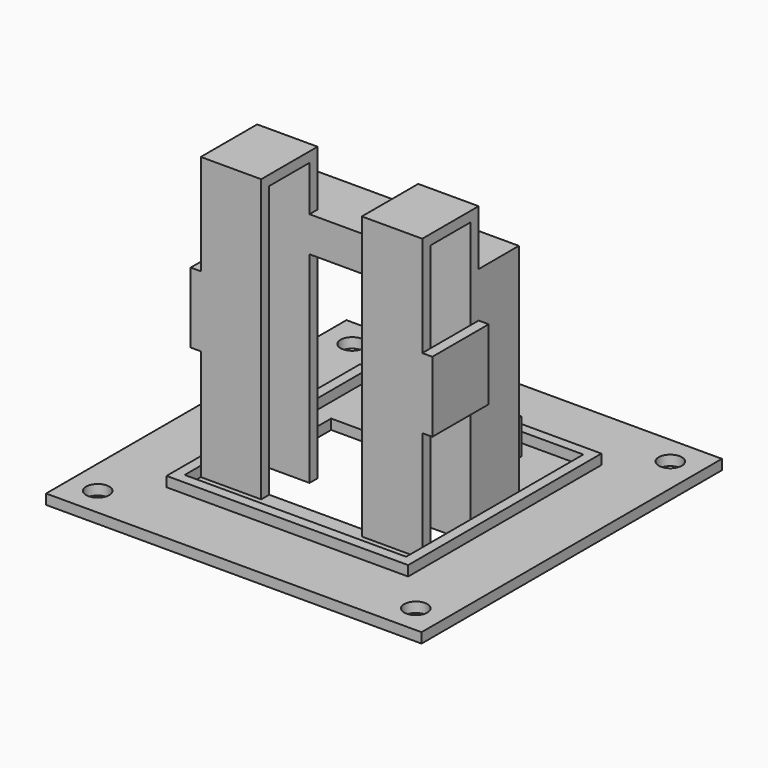
from build123d import *

# Parameters (mm, degrees)
SKETCH_W        = 37.3
SKETCH_H        = 37.3
PAD_DEPTH       = 1
SKETCH001_R     = 1.15
POCKET_DEPTH    = 1.001
SKETCH002_W     = 24
SKETCH002_H     = 24
SKETCH002_W_2   = 22
SKETCH002_H_2   = 22
PAD001_DEPTH    = 1
POCKET001_DEPTH = 5
SKETCH004_W     = 9.5
SKETCH004_H     = 4
POCKET002_DEPTH = 5
SKETCH005_W     = 1.5
SKETCH005_H     = 2.5
PAD002_DEPTH    = 2
SKETCH006_W     = 12.5
SKETCH006_H     = 2.5
PAD003_DEPTH    = 1.5
PAD004_DEPTH    = 19
SKETCH008_W     = 18.5
SKETCH008_H     = 3
PAD006_DEPTH    = 1.5
SKETCH009_W     = 22
SKETCH009_H     = 6
PAD007_DEPTH    = 2
SKETCH010_W     = 6
SKETCH010_H     = 1
PAD008_DEPTH    = 27
SKETCH011_W     = 6
SKETCH011_H     = 1
PAD009_DEPTH    = 4.5
SKETCH012_W     = 6
SKETCH012_H     = 7
PAD010_DEPTH    = 1
SKETCH013_W     = 7
SKETCH013_H     = 7
PAD011_DEPTH    = 1
SKETCH014_W     = 7
SKETCH014_H     = 7
PAD012_DEPTH    = 1


with BuildPart() as part:
    # Sketch → Pad (new body)
    with BuildSketch(Plane.XY):
        Rectangle(SKETCH_W, SKETCH_H)
    extrude(amount=PAD_DEPTH)

    # Sketch001 (on Face6 of Pad) → Pocket (cut, through all)
    with BuildSketch(Plane.XY.offset(1)):
        with Locations((15.8, 15.8)):
            Circle(SKETCH001_R)
        with Locations((-15.8, -15.8)):
            Circle(SKETCH001_R)
        with Locations((15.8, -15.8)):
            Circle(SKETCH001_R)
        with Locations((-15.8, 15.8)):
            Circle(SKETCH001_R)
    extrude(amount=-POCKET_DEPTH, mode=Mode.SUBTRACT)

    # Sketch002 (on Face5 of Pocket) → Pad001 (join)
    with BuildSketch(Plane.XY.offset(1)):
        Rectangle(SKETCH002_W, SKETCH002_H)
        Rectangle(SKETCH002_W_2, SKETCH002_H_2, mode=Mode.SUBTRACT)
    extrude(amount=PAD001_DEPTH)

    # Sketch003 (on Face20 of Pad001) → Pocket001 (cut)
    with BuildSketch(Plane.XY.offset(1)):
        Polygon((-11, -3), (-11, -8), (11, -8), (11, -3), (5, -3), (5, -2), (9.25, -2), (9.25, 5), (-9.25, 5), (-9.25, -2), (-5, -2), (-5, -3), align=None)
    extrude(amount=-POCKET001_DEPTH, mode=Mode.SUBTRACT)

    # Sketch004 (on Face25 of Pocket001) → Pocket002 (cut)
    with BuildSketch(Plane.XY.offset(1)):
        with Locations((0, 8)):
            Rectangle(SKETCH004_W, SKETCH004_H)
    extrude(amount=-POCKET002_DEPTH, mode=Mode.SUBTRACT)

    # Sketch005 (on Face31 of Pocket002) → Pad002 (join)
    with BuildSketch(Plane.XY.offset(1)):
        with Locations((-5.5, 8)):
            Rectangle(SKETCH005_W, SKETCH005_H)
        with Locations((5.5, 8)):
            Rectangle(SKETCH005_W, SKETCH005_H)
    extrude(amount=PAD002_DEPTH)

    # Sketch006 (on Face40 of Pad002) → Pad003 (join)
    with BuildSketch(Plane.XY.offset(3)):
        with Locations((0, 8)):
            Rectangle(SKETCH006_W, SKETCH006_H)
    extrude(amount=PAD003_DEPTH)

    # Sketch007 (on Face31 of Pad003) → Pad004 (join)
    with BuildSketch(Plane.XY.offset(1)):
        Polygon((-11, 3), (-11, -3), (-5, -3), (-5, -2), (-9.25, -2), (-9.25, 3), align=None)
        Polygon((9.25, 3), (9.25, -2), (5, -2), (5, -3), (11, -3), (11, 3), align=None)
    extrude(amount=PAD004_DEPTH)

    # Sketch008 (on Face31 of Pad004) → Pad006 (join)
    with BuildSketch(Plane.XY.offset(20)):
        Polygon((-11, 3), (-11, 2), (-11, -1), (-11, -3), (11, -3), (11, 3), align=None)
        with Locations((0, 0.5)):
            Rectangle(SKETCH008_W, SKETCH008_H, mode=Mode.SUBTRACT)
    extrude(amount=PAD006_DEPTH)

    # Sketch009 → Pad007 (join)
    with BuildSketch(Plane.XY.offset(21.5)):
        Rectangle(SKETCH009_W, SKETCH009_H)
    extrude(amount=PAD007_DEPTH)

    # Sketch010 (on Face42 of Pad007) → Pad008 (join)
    with BuildSketch(Plane.XY.offset(1)):
        with Locations((-8, -8.5)):
            Rectangle(SKETCH010_W, SKETCH010_H)
        with Locations((8, -8.5)):
            Rectangle(SKETCH010_W, SKETCH010_H)
    extrude(amount=PAD008_DEPTH)

    # Sketch011 (on Face19 of Pad008) → Pad009 (join)
    with BuildSketch(Plane.XY.offset(23.5)):
        with Locations((-8, -2.5)):
            Rectangle(SKETCH011_W, SKETCH011_H)
        with Locations((8, -2.5)):
            Rectangle(SKETCH011_W, SKETCH011_H)
    extrude(amount=PAD009_DEPTH)

    # Sketch012 (on Face62 of Pad009) → Pad010 (join)
    with BuildSketch(Plane.XY.offset(28)):
        with Locations((-8, -5.5)):
            Rectangle(SKETCH012_W, SKETCH012_H)
        with Locations((8, -5.5)):
            Rectangle(SKETCH012_W, SKETCH012_H)
    extrude(amount=PAD010_DEPTH)

    # Sketch013 (on Face54 of Pad010) → Pad011 (join)
    with BuildSketch(Plane(origin=(-11, 0, 0), x_dir=(0, -1, 0), z_dir=(-1, 0, 0))):
        with Locations((5.5, 15.5)):
            Rectangle(SKETCH013_W, SKETCH013_H)
    extrude(amount=PAD011_DEPTH)

    # Sketch014 (on Face18 of Pad011) → Pad012 (join)
    with BuildSketch(Plane.YZ.offset(11)):
        with Locations((-5.5, 15.5)):
            Rectangle(SKETCH014_W, SKETCH014_H)
    extrude(amount=PAD012_DEPTH)


solid = part.part
